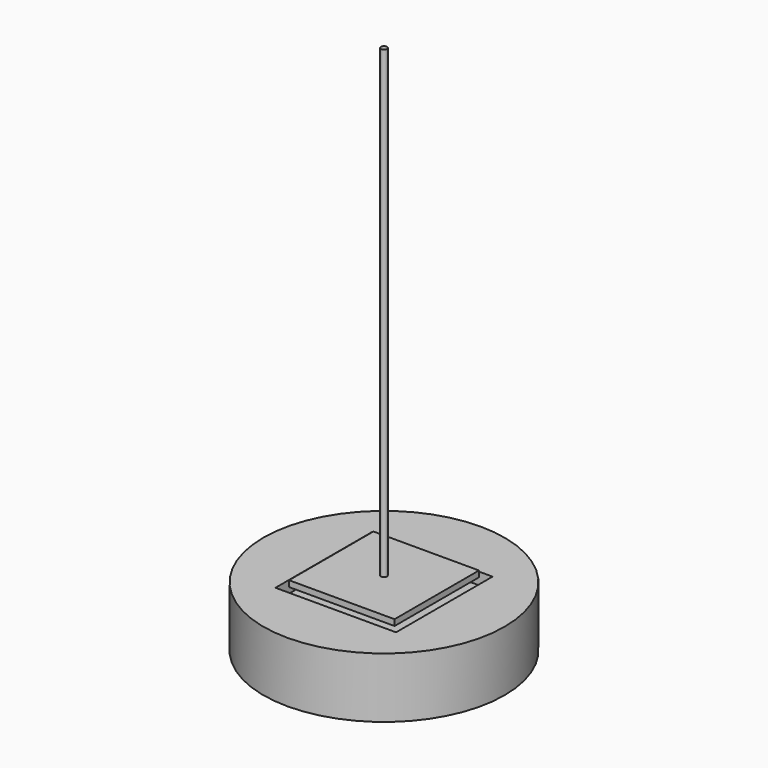
from build123d import *

# Parameters (mm, degrees)
F2_R     = 0.05
F3_DEPTH = 7.8
F0_W     = 1.75
F0_H     = 1.75
F4_DEPTH = 0.1
F5_R     = 2
F6_DEPTH = 1
F7_W     = 2
F7_H     = 2
F8_DEPTH = 0.2


with BuildPart() as f3:
    # F2 (on offset) → F3 (new body)
    with BuildSketch(Plane.XY.offset(7.8)):
        Circle(F2_R)
    extrude(amount=-F3_DEPTH)

    # F0 (on Top) → F4 (join)
    with BuildSketch(Plane.XY):
        Rectangle(F0_W, F0_H)
    extrude(amount=F4_DEPTH)


with BuildPart() as f6:
    # F5 (on Top) → F6 (new body)
    with BuildSketch(Plane.XY):
        Circle(F5_R)
    extrude(amount=-F6_DEPTH)

    # F7 (on face) → F8 (cut)
    with BuildSketch(Plane.XY):
        Rectangle(F7_W, F7_H)
    extrude(amount=-F8_DEPTH, mode=Mode.SUBTRACT)


solid = Compound([f3.part, f6.part])
